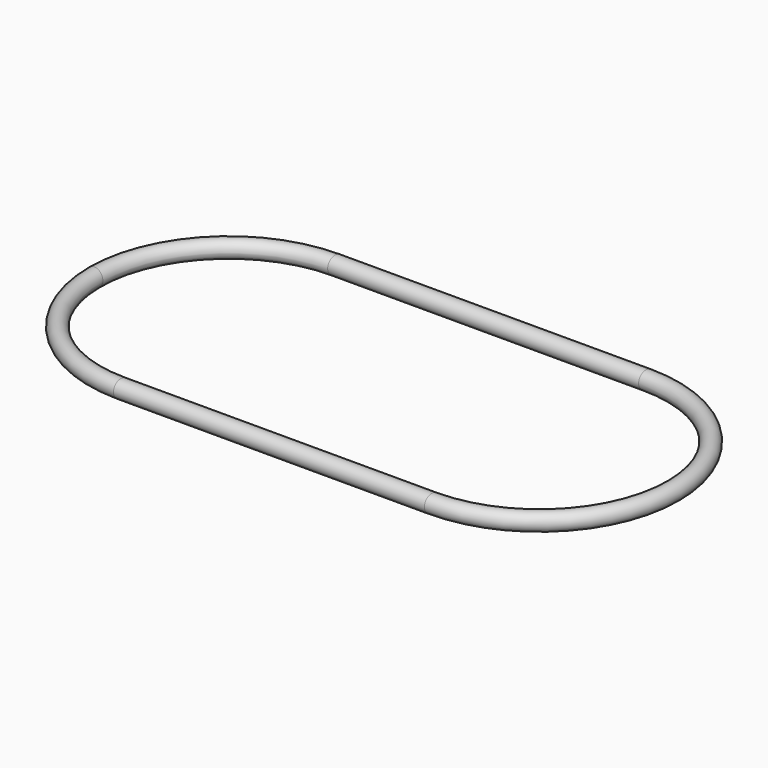
from build123d import *

# Parameters (mm, degrees)
F1_R = 4.9977905123


with BuildPart() as f2:
    # F2: sweep along a path in F0
    with BuildLine(Plane.XY) as f2_path:
        Line((-182.534724474, 185.7173790038), (-7.534724474, 185.7173790038))
        ThreePointArc((-7.534724474, 185.7173790038), (45.498284115, 163.7503875928), (67.465275526, 110.7173790038))
        ThreePointArc((67.465275526, 110.7173790038), (45.498284115, 57.6843704148), (-7.534724474, 35.7173790038))
        Line((-7.534724474, 35.7173790038), (-182.534724474, 35.7173790038))
        ThreePointArc((-182.534724474, 35.7173790038), (-235.5677330629, 57.6843704148), (-257.534724474, 110.7173790038))
        ThreePointArc((-257.534724474, 110.7173790038), (-235.5677330629, 163.7503875928), (-182.534724474, 185.7173790038))
    # F1 (on Right) → F2 (sweep)
    with BuildSketch(Plane.YZ):
        with Locations((35.7930846512, 0)):
            Circle(F1_R)
    sweep(path=f2_path.line)


solid = f2.part
